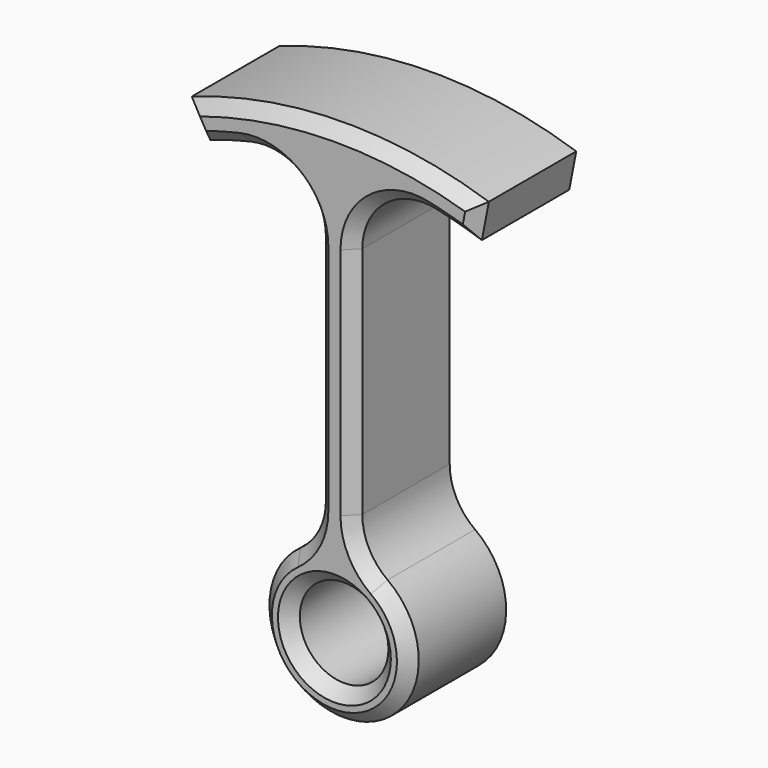
from build123d import *

# Parameters (mm, degrees)
F0_R     = 3.65
F1_DEPTH = 10
F2_R     = 5
F3_SIZE  = 1


with BuildPart() as f1:
    # F0 (on Front) → F1 (new body)
    with BuildSketch(Plane.XZ):
        with BuildLine():
            Line((-1.5, 32), (-1.5, 5.964269))
            ThreePointArc((-1.5, 5.964269), (0, -6.15), (1.5, 5.964269))
            Line((1.5, 5.964269), (1.5, 32))
            Line((1.5, 32), (1.5, 33.995855))
            ThreePointArc((1.5, 33.995855), (6.49123, 33.437665), (11.349069, 32.162768))
            Line((11.349069, 32.162768), (11.922919, 35.134547))
            ThreePointArc((11.922919, 35.134547), (-0.341827, 37.018449), (-12.551888, 34.807689))
            Line((-12.551888, 34.807689), (-11.028524, 32.162768))
            ThreePointArc((-11.028524, 32.162768), (-6.328333, 33.407946), (-1.5, 33.981945))
            Line((-1.5, 33.981945), (-1.5, 32))
        make_face()
        Circle(F0_R, mode=Mode.SUBTRACT)
    extrude(amount=F1_DEPTH)

    # F2
    f2_edges = [f1.edges().sort_by_distance(p)[0] for p in [
        (1.5, -5, 33.995855),
        (-1.5, -5, 33.981945),
        (1.5, -5, 5.964269),
        (-1.5, -5, 5.964269),
    ]]
    fillet(f2_edges, radius=F2_R)

    # F3
    f3_edges = [f1.edges().sort_by_distance(p)[0] for p in [
        (-1.5, -10, 18.661073),
        (-2.051742, -10, 6.776187),
        (-3.387544, -10, 32.175892),
        (0, -10, -6.15),
        (-9.33922, -10, 32.692204),
        (2.051742, -10, 6.776187),
        (-11.790206, -10, 33.485228),
        (1.5, -10, 18.697149),
        (-0.341827, -10, 37.018449),
        (3.365873, -10, 32.23071),
        (11.635994, -10, 33.648657),
        (9.474964, -10, 32.744415),
        (-3.65, -10, 0),
    ]]
    chamfer(f3_edges, length=F3_SIZE)


solid = f1.part
